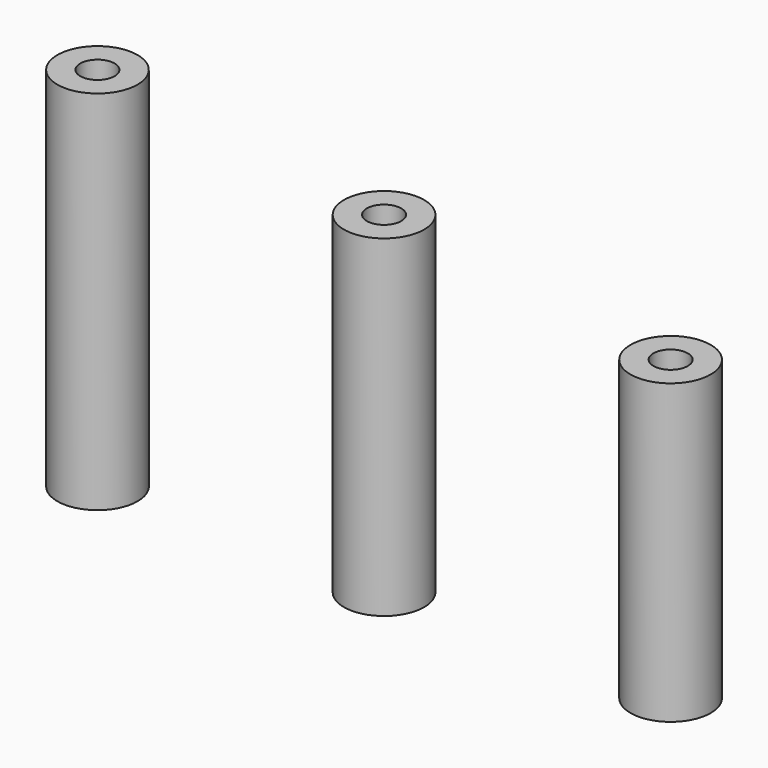
from build123d import *

# Parameters (mm, degrees)
F0_R     = 3.5
F0_R_2   = 1.5
F1_DEPTH = 32
F2_DEPTH = 29
F3_DEPTH = 26


with BuildPart() as f1:
    # F0 (on Top) → F1 (new body)
    with BuildSketch(Plane.XY):
        Circle(F0_R)
        Circle(F0_R_2, mode=Mode.SUBTRACT)
    extrude(amount=F1_DEPTH)


with BuildPart() as f2:
    # F0 (on Top) → F2 (new body)
    with BuildSketch(Plane.XY):
        with Locations((25, 0)):
            Circle(F0_R)
        with Locations((25, 0)):
            Circle(F0_R_2, mode=Mode.SUBTRACT)
    extrude(amount=F2_DEPTH)


with BuildPart() as f3:
    # F0 (on Top) → F3 (new body)
    with BuildSketch(Plane.XY):
        with Locations((50, 0)):
            Circle(F0_R)
        with Locations((50, 0)):
            Circle(F0_R_2, mode=Mode.SUBTRACT)
    extrude(amount=F3_DEPTH)


solid = Compound([f1.part, f2.part, f3.part])
